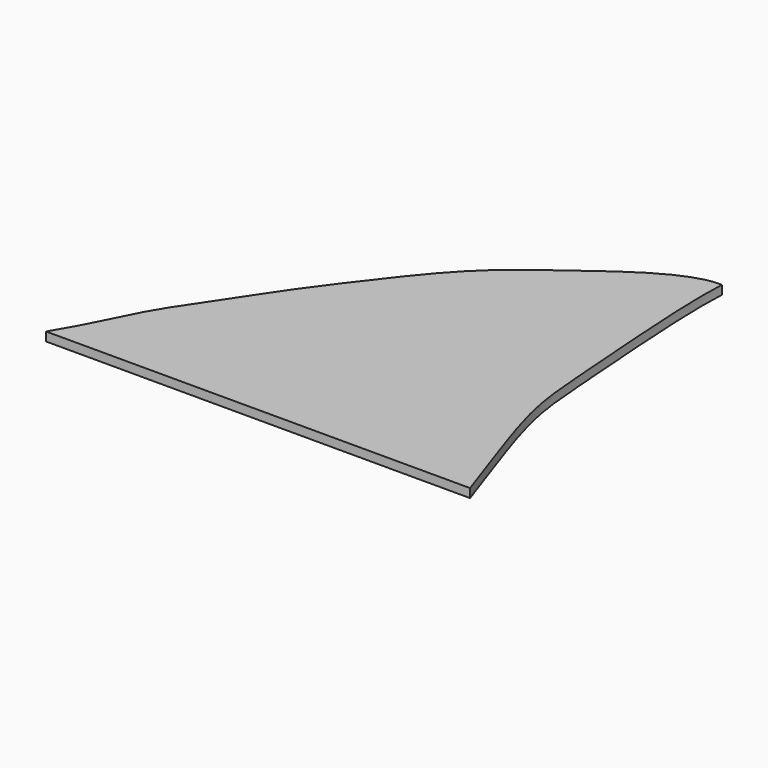
from build123d import *

# Parameters (mm, degrees)
F1_DEPTH = 3.175


with BuildPart() as f1:
    # F0 (on Top) → F1 (new body)
    with BuildSketch(Plane.XY):
        with BuildLine():
            add(Edge.make_bspline(
                [(-96.0115804038, -74.311077986), (-91.366818638, -66.705025857), (-86.4921908057, -56.7698509475), (-80.5853191896, -44.5491721116), (-70.580451913, -30.2565457062), (-58.2089181559, -11.0176702854), (-44.1485127499, 7.546522207), (-26.3106406043, 30.2656810546), (-4.8140693897, 46.0855510514), (23.0591052902, 66.9382841423), (34.4061315478, 66.3471112509)],
                knots=[0, 0, 0, 0, 0.1162120289, 0.2073522292, 0.3134740144, 0.4358020509, 0.560514979, 0.6948055997, 0.8330964957, 1, 1, 1, 1], degree=3))
            Line((-96.0115804038, -74.311077986), (56.3884195962, -74.311077986))
            add(Edge.make_bspline(
                [(34.4061315478, 66.3471112509), (34.2175351225, 61.4845104271), (33.9107685237, 48.0657430592), (37.8247936668, -4.8439747696), (39.9603064538, -28.4876551096), (50.4510053344, -56.7968459363), (56.3884195962, -74.311077986)],
                knots=[0, 0, 0, 0, 0.181254568, 0.4886312742, 0.7036901485, 1, 1, 1, 1], degree=3))
        make_face()
    extrude(amount=F1_DEPTH)


solid = f1.part
